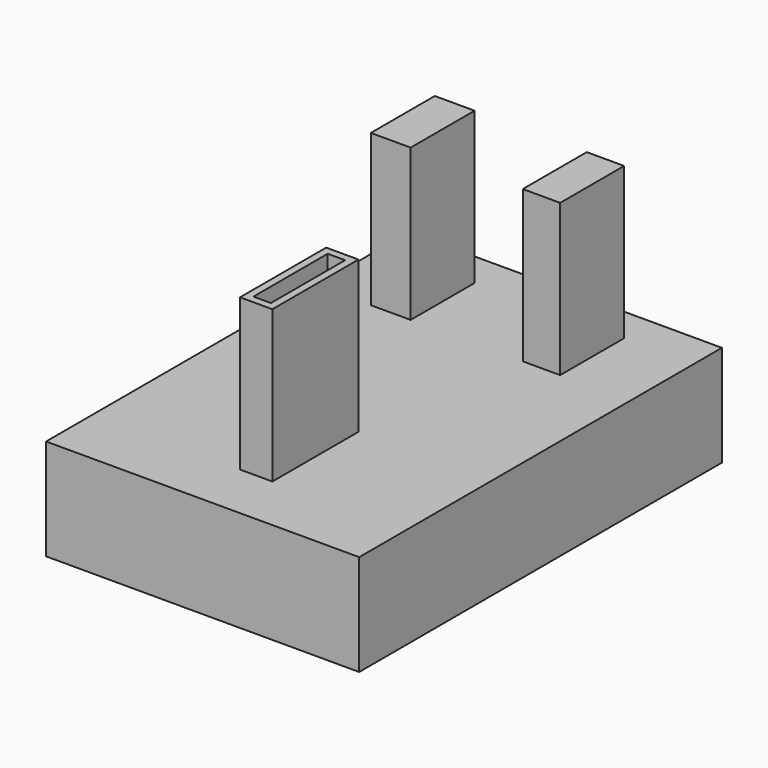
from build123d import *

# Parameters (mm, degrees)
F0_W     = 105.2859798074
F0_H     = 152.4502895772
F1_DEPTH = 34
F2_W     = 13.3893657476
F2_H     = 26.8833786249
F2_W_2   = 12.5688500702
F2_W_3   = 10.8668655157
F2_H_2   = 36.1870983616
F3_DEPTH = 51
F4_T     = -2.5


with BuildPart() as f1:
    # F0 (on Top) → F1 (new body)
    with BuildSketch(Plane.XY):
        with Locations((34.4720818102, 33.6500052363)):
            Rectangle(F0_W, F0_H)
    extrude(amount=F1_DEPTH)

    # F2 (on face) → F3 (join)
    with BuildSketch(Plane.XY.offset(34)):
        with Locations((6.6946828738, 84.6460089087)):
            Rectangle(F2_W, F2_H)
        with Locations((57.3803391308, 84.6460089087)):
            Rectangle(F2_W_2, F2_H)
        with Locations((37.0119139552, -5.1396149211)):
            Rectangle(F2_W_3, F2_H_2)
    extrude(amount=F3_DEPTH)

    # F4
    f4_openings = [f1.faces().sort_by_distance(p)[0] for p in [
        (37.011914, -5.139615, 85),
    ]]
    offset(amount=F4_T, openings=f4_openings, kind=Kind.INTERSECTION)


solid = f1.part
